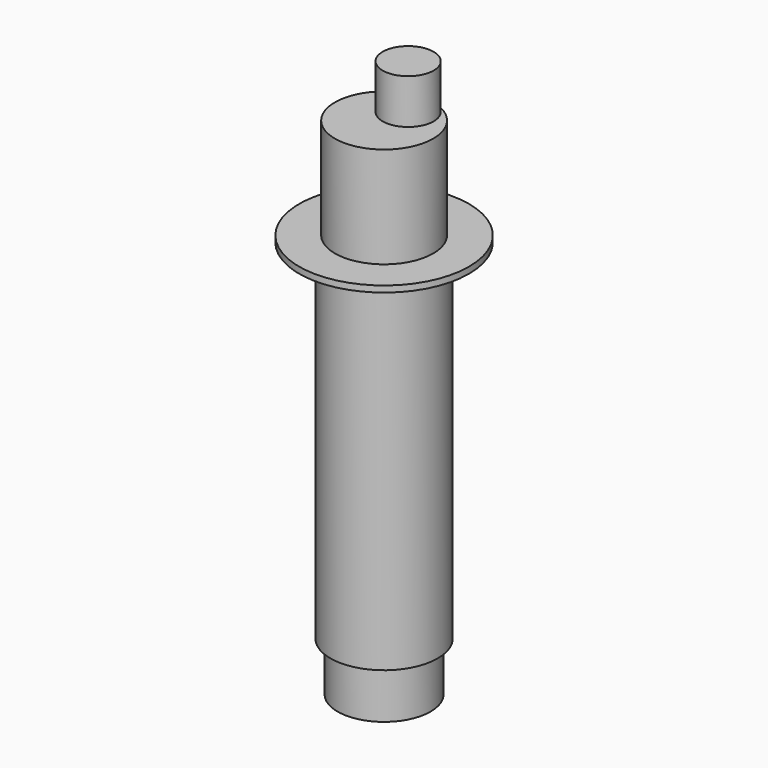
from build123d import *

# Parameters (mm, degrees)
F0_R     = 6
F1_DEPTH = 39
F2_R     = 5.5
F3_DEPTH = 12
F4_R     = 5.2
F5_DEPTH = 5.5
F6_R     = 2.85
F7_DEPTH = 5
F8_R     = 9.5
F9_DEPTH = 0.7


with BuildPart() as f1:
    # F0 (on Top) → F1 (new body)
    with BuildSketch(Plane.XY):
        Circle(F0_R)
    extrude(amount=F1_DEPTH)

    # F2 (on face) → F3 (join)
    with BuildSketch(Plane.XY.offset(39)):
        Circle(F2_R)
    extrude(amount=F3_DEPTH)

    # F8 (on face) → F9 (join)
    with BuildSketch(Plane.XY.offset(39)):
        Circle(F8_R)
    extrude(amount=F9_DEPTH)


with BuildPart() as f5:
    # F4 (on face) → F5 (new body)
    with BuildSketch(Plane(origin=(0, 0, 0), x_dir=(1, 0, 0), z_dir=(0, 0, -1))):
        Circle(F4_R)
    extrude(amount=F5_DEPTH)


with BuildPart() as f7:
    # F6 (on face) → F7 (new body)
    with BuildSketch(Plane.XY.offset(51)):
        with Locations((0.631265, 2.573714)):
            Circle(F6_R)
    extrude(amount=F7_DEPTH)


solid = Compound([f1.part, f5.part, f7.part])
